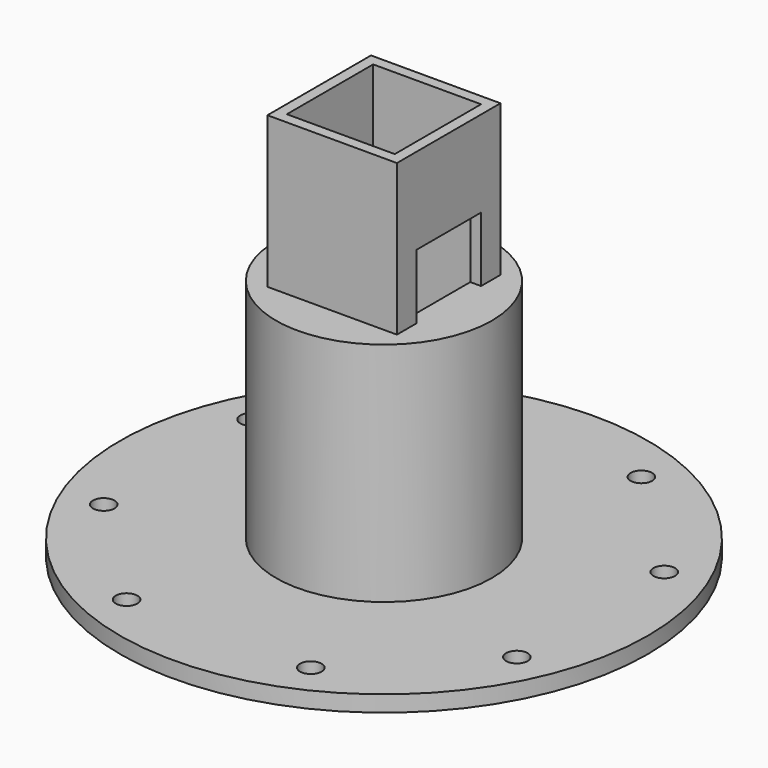
from build123d import *

# Parameters (mm, degrees)
F0_R     = 1242.592344
F0_R_2   = 50.8
F0_R_3   = 508
F1_DEPTH = 76.2
F0_W     = 660.4
F0_H     = 660.4
F0_W_2   = 609.6
F0_H_2   = 609.6
F0_W_3   = 508
F0_H_3   = 508
F2_DEPTH = 1143
F3_DEPTH = 1854.2
F4_DEPTH = 2540
F5_DEPTH = 508
F6_W     = 381
F6_H     = 304.8
F7_DEPTH = 962.66


with BuildPart() as f1:
    # F0 (on Top) → F1 (new body)
    with BuildSketch(Plane.XY):
        Circle(F0_R)
        with Locations((-433.664765, -972.480132)):
            Circle(F0_R_2, mode=Mode.SUBTRACT)
        with Locations((433.664765, -972.480132)):
            Circle(F0_R_2, mode=Mode.SUBTRACT)
        with Locations((-972.480132, -433.664765)):
            Circle(F0_R_2, mode=Mode.SUBTRACT)
        Circle(F0_R_3, mode=Mode.SUBTRACT)
        with Locations((972.480132, -433.664765)):
            Circle(F0_R_2, mode=Mode.SUBTRACT)
        with Locations((-972.480132, 433.664765)):
            Circle(F0_R_2, mode=Mode.SUBTRACT)
        with Locations((-433.664765, 972.480132)):
            Circle(F0_R_2, mode=Mode.SUBTRACT)
        with Locations((433.664765, 972.480132)):
            Circle(F0_R_2, mode=Mode.SUBTRACT)
        with Locations((972.480132, 433.664765)):
            Circle(F0_R_2, mode=Mode.SUBTRACT)
    extrude(amount=F1_DEPTH)

    # F0 (on Top) → F2 (join)
    with BuildSketch(Plane.XY):
        Circle(F0_R_3)
        Rectangle(F0_W, F0_H, mode=Mode.SUBTRACT)
        Rectangle(F0_W, F0_H)
        Rectangle(F0_W_2, F0_H_2, mode=Mode.SUBTRACT)
        Rectangle(F0_W_2, F0_H_2)
        Rectangle(F0_W_3, F0_H_3, mode=Mode.SUBTRACT)
        Rectangle(F0_W_3, F0_H_3)
    extrude(amount=F2_DEPTH)

    # F0 (on Top) → F3 (join)
    with BuildSketch(Plane.XY):
        Rectangle(F0_W_2, F0_H_2)
        Rectangle(F0_W_3, F0_H_3, mode=Mode.SUBTRACT)
    extrude(amount=F3_DEPTH)

    # F0 (on Top) → F4 (cut)
    with BuildSketch(Plane.XY):
        Rectangle(F0_W_3, F0_H_3)
    extrude(amount=F4_DEPTH, mode=Mode.SUBTRACT)

    # F0 (on Top) → F5 (cut)
    with BuildSketch(Plane.XY):
        Rectangle(F0_W_2, F0_H_2)
        Rectangle(F0_W_3, F0_H_3, mode=Mode.SUBTRACT)
    extrude(amount=F5_DEPTH, mode=Mode.SUBTRACT)

    # F6 (on face) → F7 (cut)
    with BuildSketch(Plane(origin=(-304.8, 0, 0), x_dir=(0, -1, 0), z_dir=(-1, 0, 0))):
        with Locations((0, 1295.4)):
            Rectangle(F6_W, F6_H)
    extrude(amount=-F7_DEPTH, mode=Mode.SUBTRACT)


solid = f1.part
